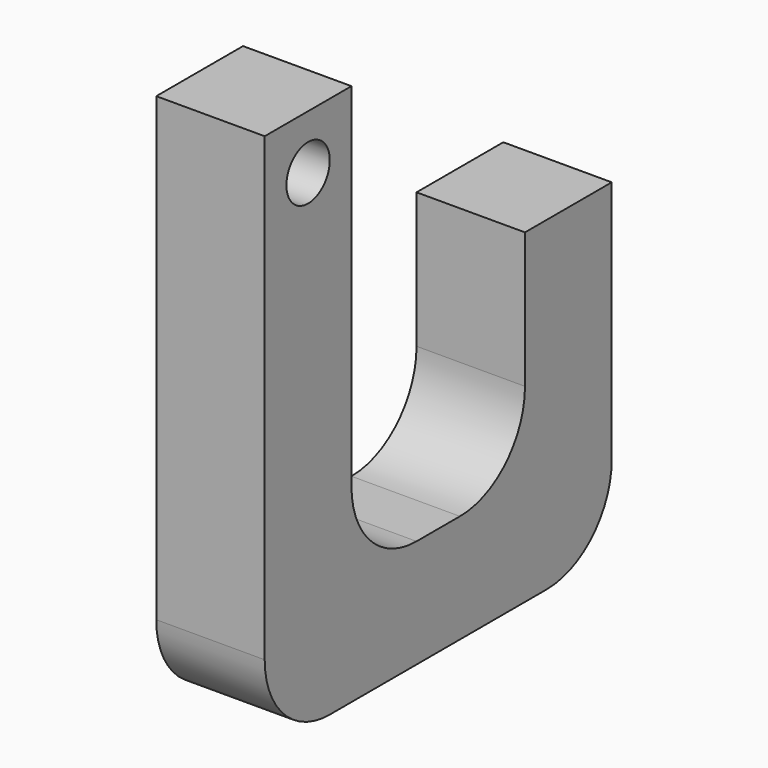
from build123d import *

# Parameters (mm, degrees)
F0_W     = 25.4
F0_H     = 25.4
F1_DEPTH = 101.6
F2_W     = 25.4
F2_H     = 25.4
F3_DEPTH = 127
F4_W     = 25.4
F4_H     = 25.4
F5_DEPTH = 76.2
F7_D     = 12.7
F8_R     = 19.05
F9_R     = 19.05
F10_R    = 19.05
F11_R    = 19.05


with BuildPart() as f1:
    # F0 (on Front) → F1 (new body)
    with BuildSketch(Plane.XZ):
        with Locations((-12.7, 12.7)):
            Rectangle(F0_W, F0_H)
    extrude(amount=F1_DEPTH)

    # F2 (on face) → F3 (join)
    with BuildSketch(Plane(origin=(0, 0, 0), x_dir=(1, 0, 0), z_dir=(0, 0, -1))):
        with Locations((-12.7, 88.9)):
            Rectangle(F2_W, F2_H)
    extrude(amount=-F3_DEPTH)

    # F4 (on face) → F5 (join)
    with BuildSketch(Plane(origin=(0, 0, 0), x_dir=(1, 0, 0), z_dir=(0, 0, -1))):
        with Locations((-12.7, 12.7)):
            Rectangle(F4_W, F4_H)
    extrude(amount=-F5_DEPTH)

    # F7 (through all)
    with Locations(Plane.YZ):
        with Locations((-88.9, 114.3)):
            Hole(F7_D / 2)

    # F8
    f8_edges = [f1.edges().sort_by_distance(p)[0] for p in [
        (-12.7, -76.2, 25.4),
    ]]
    fillet(f8_edges, radius=F8_R)

    # F9
    f9_edges = [f1.edges().sort_by_distance(p)[0] for p in [
        (-12.7, -101.6, 0),
    ]]
    fillet(f9_edges, radius=F9_R)

    # F10
    f10_edges = [f1.edges().sort_by_distance(p)[0] for p in [
        (-12.7, 0, 0),
    ]]
    fillet(f10_edges, radius=F10_R)

    # F11
    f11_edges = [f1.edges().sort_by_distance(p)[0] for p in [
        (-12.7, -25.4, 25.4),
    ]]
    fillet(f11_edges, radius=F11_R)


solid = f1.part
